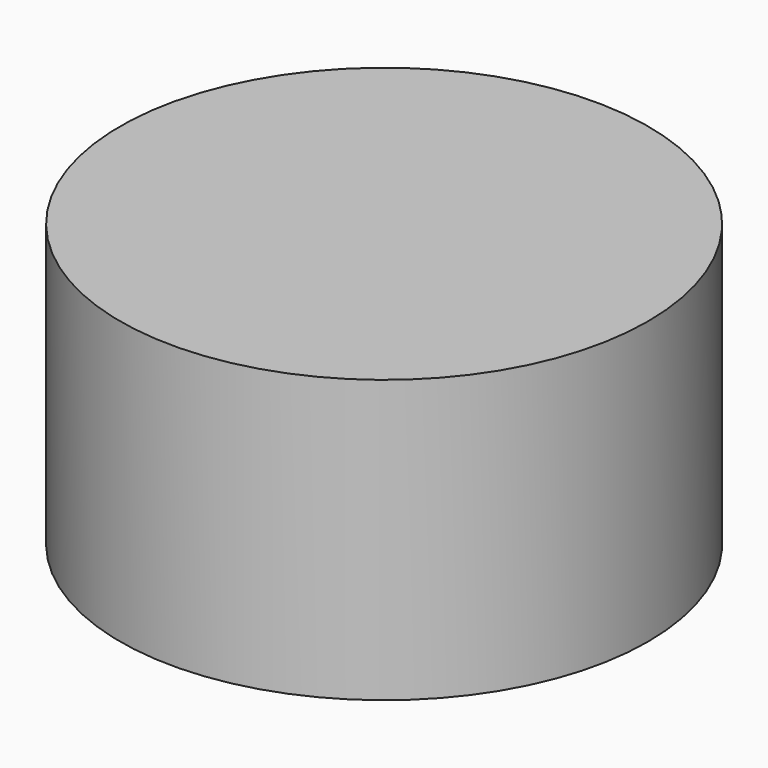
from build123d import *

# Parameters (mm, degrees)
PRISM013_DEPTH    = 1.1
CYLINDER066_R     = 2.34
CYLINDER066_DEPTH = 2.5


with BuildPart() as prism013:
    # Prism013 → Prism013 (new body)
    with BuildSketch(Plane.XY.offset(-23)):
        Polygon((1.1, 0), (0.55, 0.952628), (-0.55, 0.952628), (-1.1, 0), (-0.55, -0.952628), (0.55, -0.952628), align=None)
    extrude(amount=PRISM013_DEPTH)


with BuildPart() as cut059:
    # Cylinder066 → Cylinder066 (new body)
    with BuildSketch(Plane.XY.offset(-23)):
        Circle(CYLINDER066_R)
    extrude(amount=CYLINDER066_DEPTH)

    # Cut059: cut Prism013
    add(prism013.part, mode=Mode.SUBTRACT)


with BuildPart() as cut059_1:
    # Cut059 placement: moved
    add(cut059.part.moved(Location((0, 0, 0.5))))


solid = cut059_1.part
